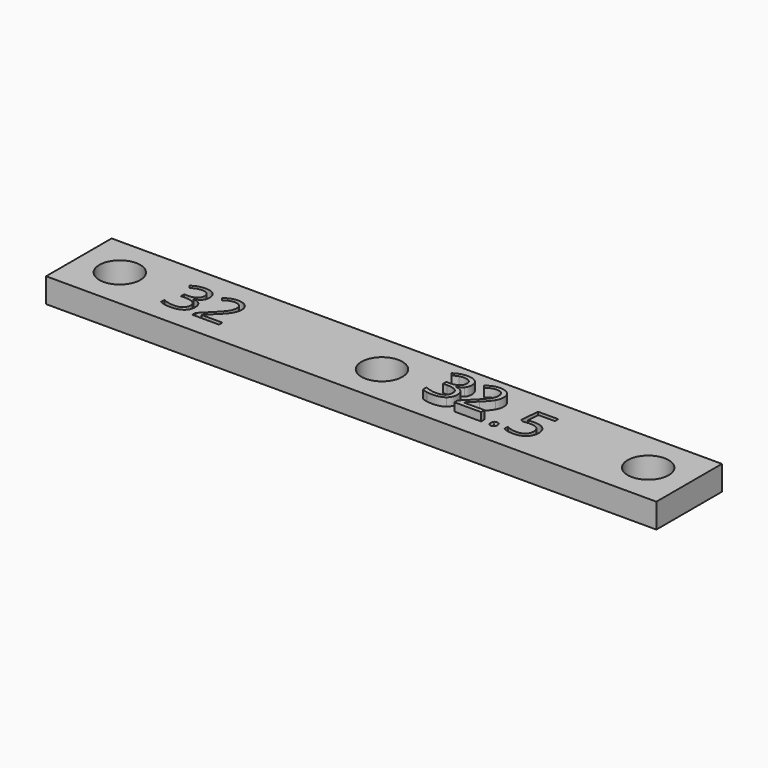
from build123d import *

# Parameters (mm, degrees)
F0_R     = 2.5
F1_DEPTH = 3
F2_DEPTH = 4


with BuildPart() as f1:
    # F0 (on Top) → F1 (new body)
    with BuildSketch(Plane.XY):
        Polygon((-37, 5), (-37, 0), (-37, -5), (37.5, -5), (37.5, 0), (37.5, 5), align=None)
        with BuildLine():
            add(Edge.make_bspline(
                [(-22.4505838764, 2.1978081597), (-22.0501932514, 1.8674045139), (-22.0501932514, 1.2912326389)],
                knots=[0, 0, 0, 1, 1, 1], degree=2))
            add(Edge.make_bspline(
                [(-22.0501932514, 1.2912326389), (-22.0501932514, 0.8159722222), (-22.3165778, 0.5143229167)],
                knots=[0, 0, 0, 1, 1, 1], degree=2))
            add(Edge.make_bspline(
                [(-22.3165778, 0.5143229167), (-22.5829623486, 0.2126736111), (-23.0712435986, 0.1106770833)],
                knots=[0, 0, 0, 1, 1, 1], degree=2))
            Line((-23.0712435986, 0.1106770833), (-23.0712435986, 0.0835503472))
            add(Edge.make_bspline(
                [(-23.0712435986, 0.0835503472), (-22.4744554041, 0.009765625), (-22.1863694666, -0.2956814236)],
                knots=[0, 0, 0, 1, 1, 1], degree=2))
            add(Edge.make_bspline(
                [(-22.1863694666, -0.2956814236), (-21.8982835291, -0.6011284722), (-21.8982835291, -1.0959201389)],
                knots=[0, 0, 0, 1, 1, 1], degree=2))
            add(Edge.make_bspline(
                [(-21.8982835291, -1.0959201389), (-21.8982835291, -1.8044704861), (-22.3898199875, -2.1864149306)],
                knots=[0, 0, 0, 1, 1, 1], degree=2))
            add(Edge.make_bspline(
                [(-22.3898199875, -2.1864149306), (-22.8813564458, -2.568359375), (-23.7863043625, -2.568359375)],
                knots=[0, 0, 0, 1, 1, 1], degree=2))
            add(Edge.make_bspline(
                [(-23.7863043625, -2.568359375), (-24.1801845708, -2.568359375), (-24.5073330083, -2.5086805556)],
                knots=[0, 0, 0, 1, 1, 1], degree=2))
            add(Edge.make_bspline(
                [(-24.5073330083, -2.5086805556), (-24.8344814458, -2.4490017361), (-25.142641168, -2.3003472222)],
                knots=[0, 0, 0, 1, 1, 1], degree=2))
            Line((-25.142641168, -2.3003472222), (-25.142641168, -1.7643229167))
            add(Edge.make_bspline(
                [(-25.142641168, -1.7643229167), (-24.820375543, -1.923828125), (-24.4557922097, -2.0068359375)],
                knots=[0, 0, 0, 1, 1, 1], degree=2))
            add(Edge.make_bspline(
                [(-24.4557922097, -2.0068359375), (-24.0912088764, -2.08984375), (-23.765688043, -2.08984375)],
                knots=[0, 0, 0, 1, 1, 1], degree=2))
            add(Edge.make_bspline(
                [(-23.765688043, -2.08984375), (-22.4809658208, -2.08984375), (-22.4809658208, -1.0828993056)],
                knots=[0, 0, 0, 1, 1, 1], degree=2))
            add(Edge.make_bspline(
                [(-22.4809658208, -1.0828993056), (-22.4809658208, -0.1801215278), (-23.8980665152, -0.1801215278)],
                knots=[0, 0, 0, 1, 1, 1], degree=2))
            Line((-23.8980665152, -0.1801215278), (-24.3863477652, -0.1801215278))
            Line((-24.3863477652, -0.1801215278), (-24.3863477652, 0.3038194444))
            Line((-24.3863477652, 0.3038194444), (-23.8915560986, 0.3038194444))
            add(Edge.make_bspline(
                [(-23.8915560986, 0.3038194444), (-23.3121290152, 0.3038194444), (-22.9730448139, 0.5598958333)],
                knots=[0, 0, 0, 1, 1, 1], degree=2))
            add(Edge.make_bspline(
                [(-22.9730448139, 0.5598958333), (-22.6339606125, 0.8159722222), (-22.6339606125, 1.2706163194)],
                knots=[0, 0, 0, 1, 1, 1], degree=2))
            add(Edge.make_bspline(
                [(-22.6339606125, 1.2706163194), (-22.6339606125, 1.6330295139), (-22.88298405, 1.8402777778)],
                knots=[0, 0, 0, 1, 1, 1], degree=2))
            add(Edge.make_bspline(
                [(-22.88298405, 1.8402777778), (-23.1320074875, 2.0475260417), (-23.5595248486, 2.0475260417)],
                knots=[0, 0, 0, 1, 1, 1], degree=2))
            add(Edge.make_bspline(
                [(-23.5595248486, 2.0475260417), (-23.8850456819, 2.0475260417), (-24.1731316194, 1.9590928819)],
                knots=[0, 0, 0, 1, 1, 1], degree=2))
            add(Edge.make_bspline(
                [(-24.1731316194, 1.9590928819), (-24.4612175569, 1.8706597222), (-24.8312262375, 1.6330295139)],
                knots=[0, 0, 0, 1, 1, 1], degree=2))
            Line((-24.8312262375, 1.6330295139), (-25.1155144319, 2.0128038194))
            add(Edge.make_bspline(
                [(-25.1155144319, 2.0128038194), (-24.810609918, 2.2536892361), (-24.4123894319, 2.3909505208)],
                knots=[0, 0, 0, 1, 1, 1], degree=2))
            add(Edge.make_bspline(
                [(-24.4123894319, 2.3909505208), (-24.0141689458, 2.5282118056), (-23.5725456819, 2.5282118056)],
                knots=[0, 0, 0, 1, 1, 1], degree=2))
            add(Edge.make_bspline(
                [(-23.5725456819, 2.5282118056), (-22.8509745014, 2.5282118056), (-22.4505838764, 2.1978081597)],
                knots=[0, 0, 0, 1, 1, 1], degree=2))
        make_face(mode=Mode.SUBTRACT)
        with BuildLine():
            add(Edge.make_bspline(
                [(15.1076843528, -2.4918619792), (14.9942945959, -2.3849826389), (14.9942945959, -2.1408420139)],
                knots=[0, 0, 0, 1, 1, 1], degree=2))
            add(Edge.make_bspline(
                [(14.9942945959, -2.1408420139), (14.9942945959, -1.9129774306), (15.0979187278, -1.7963324653)],
                knots=[0, 0, 0, 1, 1, 1], degree=2))
            add(Edge.make_bspline(
                [(15.0979187278, -1.7963324653), (15.2015428598, -1.6796875), (15.3946852209, -1.6796875)],
                knots=[0, 0, 0, 1, 1, 1], degree=2))
            add(Edge.make_bspline(
                [(15.3946852209, -1.6796875), (15.5910827903, -1.6796875), (15.7012173389, -1.7963324653)],
                knots=[0, 0, 0, 1, 1, 1], degree=2))
            add(Edge.make_bspline(
                [(15.7012173389, -1.7963324653), (15.8113518875, -1.9129774306), (15.8113518875, -2.1408420139)],
                knots=[0, 0, 0, 1, 1, 1], degree=2))
            add(Edge.make_bspline(
                [(15.8113518875, -2.1408420139), (15.8113518875, -2.3611111111), (15.6995897348, -2.4799262153)],
                knots=[0, 0, 0, 1, 1, 1], degree=2))
            add(Edge.make_bspline(
                [(15.6995897348, -2.4799262153), (15.587827582, -2.5987413194), (15.3946852209, -2.5987413194)],
                knots=[0, 0, 0, 1, 1, 1], degree=2))
            add(Edge.make_bspline(
                [(15.3946852209, -2.5987413194), (15.2210741098, -2.5987413194), (15.1076843528, -2.4918619792)],
                knots=[0, 0, 0, 1, 1, 1], degree=2))
        make_face(mode=Mode.SUBTRACT)
        with BuildLine():
            add(Edge.make_bspline(
                [(9.5494161236, 2.1978081597), (9.9498067486, 1.8674045139), (9.9498067486, 1.2912326389)],
                knots=[0, 0, 0, 1, 1, 1], degree=2))
            add(Edge.make_bspline(
                [(9.9498067486, 1.2912326389), (9.9498067486, 0.8159722222), (9.6834222, 0.5143229167)],
                knots=[0, 0, 0, 1, 1, 1], degree=2))
            add(Edge.make_bspline(
                [(9.6834222, 0.5143229167), (9.4170376514, 0.2126736111), (8.9287564014, 0.1106770833)],
                knots=[0, 0, 0, 1, 1, 1], degree=2))
            Line((8.9287564014, 0.1106770833), (8.9287564014, 0.0835503472))
            add(Edge.make_bspline(
                [(8.9287564014, 0.0835503472), (9.5255445959, 0.009765625), (9.8136305334, -0.2956814236)],
                knots=[0, 0, 0, 1, 1, 1], degree=2))
            add(Edge.make_bspline(
                [(9.8136305334, -0.2956814236), (10.1017164709, -0.6011284722), (10.1017164709, -1.0959201389)],
                knots=[0, 0, 0, 1, 1, 1], degree=2))
            add(Edge.make_bspline(
                [(10.1017164709, -1.0959201389), (10.1017164709, -1.8044704861), (9.6101800125, -2.1864149306)],
                knots=[0, 0, 0, 1, 1, 1], degree=2))
            add(Edge.make_bspline(
                [(9.6101800125, -2.1864149306), (9.1186435542, -2.568359375), (8.2136956375, -2.568359375)],
                knots=[0, 0, 0, 1, 1, 1], degree=2))
            add(Edge.make_bspline(
                [(8.2136956375, -2.568359375), (7.8198154292, -2.568359375), (7.4926669917, -2.5086805556)],
                knots=[0, 0, 0, 1, 1, 1], degree=2))
            add(Edge.make_bspline(
                [(7.4926669917, -2.5086805556), (7.1655185542, -2.4490017361), (6.857358832, -2.3003472222)],
                knots=[0, 0, 0, 1, 1, 1], degree=2))
            Line((6.857358832, -2.3003472222), (6.857358832, -1.7643229167))
            add(Edge.make_bspline(
                [(6.857358832, -1.7643229167), (7.179624457, -1.923828125), (7.5442077903, -2.0068359375)],
                knots=[0, 0, 0, 1, 1, 1], degree=2))
            add(Edge.make_bspline(
                [(7.5442077903, -2.0068359375), (7.9087911236, -2.08984375), (8.234311957, -2.08984375)],
                knots=[0, 0, 0, 1, 1, 1], degree=2))
            add(Edge.make_bspline(
                [(8.234311957, -2.08984375), (9.5190341792, -2.08984375), (9.5190341792, -1.0828993056)],
                knots=[0, 0, 0, 1, 1, 1], degree=2))
            add(Edge.make_bspline(
                [(9.5190341792, -1.0828993056), (9.5190341792, -0.1801215278), (8.1019334848, -0.1801215278)],
                knots=[0, 0, 0, 1, 1, 1], degree=2))
            Line((8.1019334848, -0.1801215278), (7.6136522348, -0.1801215278))
            Line((7.6136522348, -0.1801215278), (7.6136522348, 0.3038194444))
            Line((7.6136522348, 0.3038194444), (8.1084439014, 0.3038194444))
            add(Edge.make_bspline(
                [(8.1084439014, 0.3038194444), (8.6878709848, 0.3038194444), (9.0269551861, 0.5598958333)],
                knots=[0, 0, 0, 1, 1, 1], degree=2))
            add(Edge.make_bspline(
                [(9.0269551861, 0.5598958333), (9.3660393875, 0.8159722222), (9.3660393875, 1.2706163194)],
                knots=[0, 0, 0, 1, 1, 1], degree=2))
            add(Edge.make_bspline(
                [(9.3660393875, 1.2706163194), (9.3660393875, 1.6330295139), (9.11701595, 1.8402777778)],
                knots=[0, 0, 0, 1, 1, 1], degree=2))
            add(Edge.make_bspline(
                [(9.11701595, 1.8402777778), (8.8679925125, 2.0475260417), (8.4404751514, 2.0475260417)],
                knots=[0, 0, 0, 1, 1, 1], degree=2))
            add(Edge.make_bspline(
                [(8.4404751514, 2.0475260417), (8.1149543181, 2.0475260417), (7.8268683806, 1.9590928819)],
                knots=[0, 0, 0, 1, 1, 1], degree=2))
            add(Edge.make_bspline(
                [(7.8268683806, 1.9590928819), (7.5387824431, 1.8706597222), (7.1687737625, 1.6330295139)],
                knots=[0, 0, 0, 1, 1, 1], degree=2))
            Line((7.1687737625, 1.6330295139), (6.8844855681, 2.0128038194))
            add(Edge.make_bspline(
                [(6.8844855681, 2.0128038194), (7.189390082, 2.2536892361), (7.5876105681, 2.3909505208)],
                knots=[0, 0, 0, 1, 1, 1], degree=2))
            add(Edge.make_bspline(
                [(7.5876105681, 2.3909505208), (7.9858310542, 2.5282118056), (8.4274543181, 2.5282118056)],
                knots=[0, 0, 0, 1, 1, 1], degree=2))
            add(Edge.make_bspline(
                [(8.4274543181, 2.5282118056), (9.1490254986, 2.5282118056), (9.5494161236, 2.1978081597)],
                knots=[0, 0, 0, 1, 1, 1], degree=2))
        make_face(mode=Mode.SUBTRACT)
        with BuildLine():
            add(Edge.make_bspline(
                [(17.4389560542, 0.4503038194), (17.8284959848, 0.5284288194), (18.2158657764, 0.5284288194)],
                knots=[0, 0, 0, 1, 1, 1], degree=2))
            add(Edge.make_bspline(
                [(18.2158657764, 0.5284288194), (18.9992859153, 0.5284288194), (19.4485046653, 0.1399739583)],
                knots=[0, 0, 0, 1, 1, 1], degree=2))
            add(Edge.make_bspline(
                [(19.4485046653, 0.1399739583), (19.8977234153, -0.2484809028), (19.8977234153, -0.9233940972)],
                knots=[0, 0, 0, 1, 1, 1], degree=2))
            add(Edge.make_bspline(
                [(19.8977234153, -0.9233940972), (19.8977234153, -1.6927083333), (19.4078145611, -2.1305338542)],
                knots=[0, 0, 0, 1, 1, 1], degree=2))
            add(Edge.make_bspline(
                [(19.4078145611, -2.1305338542), (18.917905707, -2.568359375), (18.0563605681, -2.568359375)],
                knots=[0, 0, 0, 1, 1, 1], degree=2))
            add(Edge.make_bspline(
                [(18.0563605681, -2.568359375), (17.218686957, -2.568359375), (16.7781487625, -2.3003472222)],
                knots=[0, 0, 0, 1, 1, 1], degree=2))
            Line((16.7781487625, -2.3003472222), (16.7781487625, -1.7578125))
            add(Edge.make_bspline(
                [(16.7781487625, -1.7578125), (17.0146939014, -1.9097222222), (17.3673414709, -1.9965277778)],
                knots=[0, 0, 0, 1, 1, 1], degree=2))
            add(Edge.make_bspline(
                [(17.3673414709, -1.9965277778), (17.7199890403, -2.0833333333), (18.0628709848, -2.0833333333)],
                knots=[0, 0, 0, 1, 1, 1], degree=2))
            add(Edge.make_bspline(
                [(18.0628709848, -2.0833333333), (18.6596591792, -2.0833333333), (18.990062825, -1.8017578125)],
                knots=[0, 0, 0, 1, 1, 1], degree=2))
            add(Edge.make_bspline(
                [(18.990062825, -1.8017578125), (19.3204664709, -1.5201822917), (19.3204664709, -0.9874131944)],
                knots=[0, 0, 0, 1, 1, 1], degree=2))
            add(Edge.make_bspline(
                [(19.3204664709, -0.9874131944), (19.3204664709, 0.0499131944), (18.0498501514, 0.0499131944)],
                knots=[0, 0, 0, 1, 1, 1], degree=2))
            add(Edge.make_bspline(
                [(18.0498501514, 0.0499131944), (17.7275845264, 0.0499131944), (17.1883050125, -0.048828125)],
                knots=[0, 0, 0, 1, 1, 1], degree=2))
            Line((17.1883050125, -0.048828125), (16.896421332, 0.1378038194))
            Line((16.896421332, 0.1378038194), (17.0830532764, 2.4576822917))
            Line((17.0830532764, 2.4576822917), (19.5483310542, 2.4576822917))
            Line((19.5483310542, 2.4576822917), (19.5483310542, 1.9390190972))
            Line((19.5483310542, 1.9390190972), (17.5648241098, 1.9390190972))
            Line((17.5648241098, 1.9390190972), (17.4389560542, 0.4503038194))
        make_face(mode=Mode.SUBTRACT)
        with Locations((-32, 0)):
            Circle(F0_R, mode=Mode.SUBTRACT)
        with BuildLine():
            Line((-17.8932922097, -1.9780815972), (-17.8932922097, -2.5))
            Line((-17.8932922097, -2.5), (-21.1517557514, -2.5))
            Line((-21.1517557514, -2.5), (-21.1517557514, -2.0149739583))
            Line((-21.1517557514, -2.0149739583), (-19.8464172097, -0.703125))
            add(Edge.make_bspline(
                [(-19.8464172097, -0.703125), (-19.2496290152, -0.0987413194), (-19.0597418625, 0.1589626736)],
                knots=[0, 0, 0, 1, 1, 1], degree=2))
            add(Edge.make_bspline(
                [(-19.0597418625, 0.1589626736), (-18.8698547097, 0.4166666667), (-18.7749111333, 0.6608072917)],
                knots=[0, 0, 0, 1, 1, 1], degree=2))
            add(Edge.make_bspline(
                [(-18.7749111333, 0.6608072917), (-18.6799675569, 0.9049479167), (-18.6799675569, 1.1859809028)],
                knots=[0, 0, 0, 1, 1, 1], degree=2))
            add(Edge.make_bspline(
                [(-18.6799675569, 1.1859809028), (-18.6799675569, 1.5831163194), (-18.9208529736, 1.8153211806)],
                knots=[0, 0, 0, 1, 1, 1], degree=2))
            add(Edge.make_bspline(
                [(-18.9208529736, 1.8153211806), (-19.1617383902, 2.0475260417), (-19.5892557514, 2.0475260417)],
                knots=[0, 0, 0, 1, 1, 1], degree=2))
            add(Edge.make_bspline(
                [(-19.5892557514, 2.0475260417), (-19.8974154736, 2.0475260417), (-20.1741081819, 1.9455295139)],
                knots=[0, 0, 0, 1, 1, 1], degree=2))
            add(Edge.make_bspline(
                [(-20.1741081819, 1.9455295139), (-20.4508008902, 1.8435329861), (-20.7893425569, 1.5755208333)],
                knots=[0, 0, 0, 1, 1, 1], degree=2))
            Line((-20.7893425569, 1.5755208333), (-21.0877366541, 1.9585503472))
            add(Edge.make_bspline(
                [(-21.0877366541, 1.9585503472), (-20.4030578347, 2.5282118056), (-19.595766168, 2.5282118056)],
                knots=[0, 0, 0, 1, 1, 1], degree=2))
            add(Edge.make_bspline(
                [(-19.595766168, 2.5282118056), (-18.8969814458, 2.5282118056), (-18.5003885639, 2.1706814236)],
                knots=[0, 0, 0, 1, 1, 1], degree=2))
            add(Edge.make_bspline(
                [(-18.5003885639, 2.1706814236), (-18.1037956819, 1.8131510417), (-18.1037956819, 1.2098524306)],
                knots=[0, 0, 0, 1, 1, 1], degree=2))
            add(Edge.make_bspline(
                [(-18.1037956819, 1.2098524306), (-18.1037956819, 0.7378472222), (-18.3685526264, 0.2766927083)],
                knots=[0, 0, 0, 1, 1, 1], degree=2))
            add(Edge.make_bspline(
                [(-18.3685526264, 0.2766927083), (-18.6333095708, -0.1844618056), (-19.3581359597, -0.8897569444)],
                knots=[0, 0, 0, 1, 1, 1], degree=2))
            Line((-19.3581359597, -0.8897569444), (-20.4432054041, -1.9509548611))
            Line((-20.4432054041, -1.9509548611), (-20.4432054041, -1.9780815972))
            Line((-20.4432054041, -1.9780815972), (-17.8932922097, -1.9780815972))
        make_face(mode=Mode.SUBTRACT)
        Circle(F0_R, mode=Mode.SUBTRACT)
        with BuildLine():
            Line((14.1067077903, -1.9780815972), (14.1067077903, -2.5))
            Line((14.1067077903, -2.5), (10.8482442486, -2.5))
            Line((10.8482442486, -2.5), (10.8482442486, -2.0149739583))
            Line((10.8482442486, -2.0149739583), (12.1535827903, -0.703125))
            add(Edge.make_bspline(
                [(12.1535827903, -0.703125), (12.7503709848, -0.0987413194), (12.9402581375, 0.1589626736)],
                knots=[0, 0, 0, 1, 1, 1], degree=2))
            add(Edge.make_bspline(
                [(12.9402581375, 0.1589626736), (13.1301452903, 0.4166666667), (13.2250888667, 0.6608072917)],
                knots=[0, 0, 0, 1, 1, 1], degree=2))
            add(Edge.make_bspline(
                [(13.2250888667, 0.6608072917), (13.3200324431, 0.9049479167), (13.3200324431, 1.1859809028)],
                knots=[0, 0, 0, 1, 1, 1], degree=2))
            add(Edge.make_bspline(
                [(13.3200324431, 1.1859809028), (13.3200324431, 1.5831163194), (13.0791470264, 1.8153211806)],
                knots=[0, 0, 0, 1, 1, 1], degree=2))
            add(Edge.make_bspline(
                [(13.0791470264, 1.8153211806), (12.8382616098, 2.0475260417), (12.4107442486, 2.0475260417)],
                knots=[0, 0, 0, 1, 1, 1], degree=2))
            add(Edge.make_bspline(
                [(12.4107442486, 2.0475260417), (12.1025845264, 2.0475260417), (11.8258918181, 1.9455295139)],
                knots=[0, 0, 0, 1, 1, 1], degree=2))
            add(Edge.make_bspline(
                [(11.8258918181, 1.9455295139), (11.5491991098, 1.8435329861), (11.2106574431, 1.5755208333)],
                knots=[0, 0, 0, 1, 1, 1], degree=2))
            Line((11.2106574431, 1.5755208333), (10.9122633459, 1.9585503472))
            add(Edge.make_bspline(
                [(10.9122633459, 1.9585503472), (11.5969421653, 2.5282118056), (12.404233832, 2.5282118056)],
                knots=[0, 0, 0, 1, 1, 1], degree=2))
            add(Edge.make_bspline(
                [(12.404233832, 2.5282118056), (13.1030185542, 2.5282118056), (13.4996114361, 2.1706814236)],
                knots=[0, 0, 0, 1, 1, 1], degree=2))
            add(Edge.make_bspline(
                [(13.4996114361, 2.1706814236), (13.8962043181, 1.8131510417), (13.8962043181, 1.2098524306)],
                knots=[0, 0, 0, 1, 1, 1], degree=2))
            add(Edge.make_bspline(
                [(13.8962043181, 1.2098524306), (13.8962043181, 0.7378472222), (13.6314473736, 0.2766927083)],
                knots=[0, 0, 0, 1, 1, 1], degree=2))
            add(Edge.make_bspline(
                [(13.6314473736, 0.2766927083), (13.3666904292, -0.1844618056), (12.6418640403, -0.8897569444)],
                knots=[0, 0, 0, 1, 1, 1], degree=2))
            Line((12.6418640403, -0.8897569444), (11.5567945959, -1.9509548611))
            Line((11.5567945959, -1.9509548611), (11.5567945959, -1.9780815972))
            Line((11.5567945959, -1.9780815972), (14.1067077903, -1.9780815972))
        make_face(mode=Mode.SUBTRACT)
        with Locations((32.5, 0)):
            Circle(F0_R, mode=Mode.SUBTRACT)
    extrude(amount=F1_DEPTH)

    # F0 (on Top) → F2 (join)
    with BuildSketch(Plane.XY):
        with BuildLine():
            add(Edge.make_bspline(
                [(9.9498067486, 1.2912326389), (9.9498067486, 0.8159722222), (9.6834222, 0.5143229167)],
                knots=[0, 0, 0, 1, 1, 1], degree=2))
            add(Edge.make_bspline(
                [(9.5494161236, 2.1978081597), (9.9498067486, 1.8674045139), (9.9498067486, 1.2912326389)],
                knots=[0, 0, 0, 1, 1, 1], degree=2))
            add(Edge.make_bspline(
                [(8.4274543181, 2.5282118056), (9.1490254986, 2.5282118056), (9.5494161236, 2.1978081597)],
                knots=[0, 0, 0, 1, 1, 1], degree=2))
            add(Edge.make_bspline(
                [(7.5876105681, 2.3909505208), (7.9858310542, 2.5282118056), (8.4274543181, 2.5282118056)],
                knots=[0, 0, 0, 1, 1, 1], degree=2))
            add(Edge.make_bspline(
                [(6.8844855681, 2.0128038194), (7.189390082, 2.2536892361), (7.5876105681, 2.3909505208)],
                knots=[0, 0, 0, 1, 1, 1], degree=2))
            Line((6.8844855681, 2.0128038194), (7.1687737625, 1.6330295139))
            add(Edge.make_bspline(
                [(7.8268683806, 1.9590928819), (7.5387824431, 1.8706597222), (7.1687737625, 1.6330295139)],
                knots=[0, 0, 0, 1, 1, 1], degree=2))
            add(Edge.make_bspline(
                [(8.4404751514, 2.0475260417), (8.1149543181, 2.0475260417), (7.8268683806, 1.9590928819)],
                knots=[0, 0, 0, 1, 1, 1], degree=2))
            add(Edge.make_bspline(
                [(9.11701595, 1.8402777778), (8.8679925125, 2.0475260417), (8.4404751514, 2.0475260417)],
                knots=[0, 0, 0, 1, 1, 1], degree=2))
            add(Edge.make_bspline(
                [(9.3660393875, 1.2706163194), (9.3660393875, 1.6330295139), (9.11701595, 1.8402777778)],
                knots=[0, 0, 0, 1, 1, 1], degree=2))
            add(Edge.make_bspline(
                [(9.0269551861, 0.5598958333), (9.3660393875, 0.8159722222), (9.3660393875, 1.2706163194)],
                knots=[0, 0, 0, 1, 1, 1], degree=2))
            add(Edge.make_bspline(
                [(8.1084439014, 0.3038194444), (8.6878709848, 0.3038194444), (9.0269551861, 0.5598958333)],
                knots=[0, 0, 0, 1, 1, 1], degree=2))
            Line((8.1084439014, 0.3038194444), (7.6136522348, 0.3038194444))
            Line((7.6136522348, 0.3038194444), (7.6136522348, -0.1801215278))
            Line((7.6136522348, -0.1801215278), (8.1019334848, -0.1801215278))
            add(Edge.make_bspline(
                [(9.5190341792, -1.0828993056), (9.5190341792, -0.1801215278), (8.1019334848, -0.1801215278)],
                knots=[0, 0, 0, 1, 1, 1], degree=2))
            add(Edge.make_bspline(
                [(8.234311957, -2.08984375), (9.5190341792, -2.08984375), (9.5190341792, -1.0828993056)],
                knots=[0, 0, 0, 1, 1, 1], degree=2))
            add(Edge.make_bspline(
                [(7.5442077903, -2.0068359375), (7.9087911236, -2.08984375), (8.234311957, -2.08984375)],
                knots=[0, 0, 0, 1, 1, 1], degree=2))
            add(Edge.make_bspline(
                [(6.857358832, -1.7643229167), (7.179624457, -1.923828125), (7.5442077903, -2.0068359375)],
                knots=[0, 0, 0, 1, 1, 1], degree=2))
            Line((6.857358832, -1.7643229167), (6.857358832, -2.3003472222))
            add(Edge.make_bspline(
                [(7.4926669917, -2.5086805556), (7.1655185542, -2.4490017361), (6.857358832, -2.3003472222)],
                knots=[0, 0, 0, 1, 1, 1], degree=2))
            add(Edge.make_bspline(
                [(8.2136956375, -2.568359375), (7.8198154292, -2.568359375), (7.4926669917, -2.5086805556)],
                knots=[0, 0, 0, 1, 1, 1], degree=2))
            add(Edge.make_bspline(
                [(9.6101800125, -2.1864149306), (9.1186435542, -2.568359375), (8.2136956375, -2.568359375)],
                knots=[0, 0, 0, 1, 1, 1], degree=2))
            add(Edge.make_bspline(
                [(10.1017164709, -1.0959201389), (10.1017164709, -1.8044704861), (9.6101800125, -2.1864149306)],
                knots=[0, 0, 0, 1, 1, 1], degree=2))
            add(Edge.make_bspline(
                [(9.8136305334, -0.2956814236), (10.1017164709, -0.6011284722), (10.1017164709, -1.0959201389)],
                knots=[0, 0, 0, 1, 1, 1], degree=2))
            add(Edge.make_bspline(
                [(8.9287564014, 0.0835503472), (9.5255445959, 0.009765625), (9.8136305334, -0.2956814236)],
                knots=[0, 0, 0, 1, 1, 1], degree=2))
            Line((8.9287564014, 0.0835503472), (8.9287564014, 0.1106770833))
            add(Edge.make_bspline(
                [(9.6834222, 0.5143229167), (9.4170376514, 0.2126736111), (8.9287564014, 0.1106770833)],
                knots=[0, 0, 0, 1, 1, 1], degree=2))
        make_face()
        with BuildLine():
            add(Edge.make_bspline(
                [(9.9498067486, 1.2912326389), (9.9498067486, 0.8159722222), (9.6834222, 0.5143229167)],
                knots=[0, 0, 0, 1, 1, 1], degree=2))
            add(Edge.make_bspline(
                [(9.5494161236, 2.1978081597), (9.9498067486, 1.8674045139), (9.9498067486, 1.2912326389)],
                knots=[0, 0, 0, 1, 1, 1], degree=2))
            add(Edge.make_bspline(
                [(8.4274543181, 2.5282118056), (9.1490254986, 2.5282118056), (9.5494161236, 2.1978081597)],
                knots=[0, 0, 0, 1, 1, 1], degree=2))
            add(Edge.make_bspline(
                [(7.5876105681, 2.3909505208), (7.9858310542, 2.5282118056), (8.4274543181, 2.5282118056)],
                knots=[0, 0, 0, 1, 1, 1], degree=2))
            add(Edge.make_bspline(
                [(6.8844855681, 2.0128038194), (7.189390082, 2.2536892361), (7.5876105681, 2.3909505208)],
                knots=[0, 0, 0, 1, 1, 1], degree=2))
            Line((6.8844855681, 2.0128038194), (7.1687737625, 1.6330295139))
            add(Edge.make_bspline(
                [(7.8268683806, 1.9590928819), (7.5387824431, 1.8706597222), (7.1687737625, 1.6330295139)],
                knots=[0, 0, 0, 1, 1, 1], degree=2))
            add(Edge.make_bspline(
                [(8.4404751514, 2.0475260417), (8.1149543181, 2.0475260417), (7.8268683806, 1.9590928819)],
                knots=[0, 0, 0, 1, 1, 1], degree=2))
            add(Edge.make_bspline(
                [(9.11701595, 1.8402777778), (8.8679925125, 2.0475260417), (8.4404751514, 2.0475260417)],
                knots=[0, 0, 0, 1, 1, 1], degree=2))
            add(Edge.make_bspline(
                [(9.3660393875, 1.2706163194), (9.3660393875, 1.6330295139), (9.11701595, 1.8402777778)],
                knots=[0, 0, 0, 1, 1, 1], degree=2))
            add(Edge.make_bspline(
                [(9.0269551861, 0.5598958333), (9.3660393875, 0.8159722222), (9.3660393875, 1.2706163194)],
                knots=[0, 0, 0, 1, 1, 1], degree=2))
            add(Edge.make_bspline(
                [(8.1084439014, 0.3038194444), (8.6878709848, 0.3038194444), (9.0269551861, 0.5598958333)],
                knots=[0, 0, 0, 1, 1, 1], degree=2))
            Line((8.1084439014, 0.3038194444), (7.6136522348, 0.3038194444))
            Line((7.6136522348, 0.3038194444), (7.6136522348, -0.1801215278))
            Line((7.6136522348, -0.1801215278), (8.1019334848, -0.1801215278))
            add(Edge.make_bspline(
                [(9.5190341792, -1.0828993056), (9.5190341792, -0.1801215278), (8.1019334848, -0.1801215278)],
                knots=[0, 0, 0, 1, 1, 1], degree=2))
            add(Edge.make_bspline(
                [(8.234311957, -2.08984375), (9.5190341792, -2.08984375), (9.5190341792, -1.0828993056)],
                knots=[0, 0, 0, 1, 1, 1], degree=2))
            add(Edge.make_bspline(
                [(7.5442077903, -2.0068359375), (7.9087911236, -2.08984375), (8.234311957, -2.08984375)],
                knots=[0, 0, 0, 1, 1, 1], degree=2))
            add(Edge.make_bspline(
                [(6.857358832, -1.7643229167), (7.179624457, -1.923828125), (7.5442077903, -2.0068359375)],
                knots=[0, 0, 0, 1, 1, 1], degree=2))
            Line((6.857358832, -1.7643229167), (6.857358832, -2.3003472222))
            add(Edge.make_bspline(
                [(7.4926669917, -2.5086805556), (7.1655185542, -2.4490017361), (6.857358832, -2.3003472222)],
                knots=[0, 0, 0, 1, 1, 1], degree=2))
            add(Edge.make_bspline(
                [(8.2136956375, -2.568359375), (7.8198154292, -2.568359375), (7.4926669917, -2.5086805556)],
                knots=[0, 0, 0, 1, 1, 1], degree=2))
            add(Edge.make_bspline(
                [(9.6101800125, -2.1864149306), (9.1186435542, -2.568359375), (8.2136956375, -2.568359375)],
                knots=[0, 0, 0, 1, 1, 1], degree=2))
            add(Edge.make_bspline(
                [(10.1017164709, -1.0959201389), (10.1017164709, -1.8044704861), (9.6101800125, -2.1864149306)],
                knots=[0, 0, 0, 1, 1, 1], degree=2))
            add(Edge.make_bspline(
                [(9.8136305334, -0.2956814236), (10.1017164709, -0.6011284722), (10.1017164709, -1.0959201389)],
                knots=[0, 0, 0, 1, 1, 1], degree=2))
            add(Edge.make_bspline(
                [(8.9287564014, 0.0835503472), (9.5255445959, 0.009765625), (9.8136305334, -0.2956814236)],
                knots=[0, 0, 0, 1, 1, 1], degree=2))
            Line((8.9287564014, 0.0835503472), (8.9287564014, 0.1106770833))
            add(Edge.make_bspline(
                [(9.6834222, 0.5143229167), (9.4170376514, 0.2126736111), (8.9287564014, 0.1106770833)],
                knots=[0, 0, 0, 1, 1, 1], degree=2))
        make_face()
        with BuildLine():
            Line((10.8482442486, -2.5), (14.1067077903, -2.5))
            Line((14.1067077903, -2.5), (14.1067077903, -1.9780815972))
            Line((14.1067077903, -1.9780815972), (11.5567945959, -1.9780815972))
            Line((11.5567945959, -1.9780815972), (11.5567945959, -1.9509548611))
            Line((11.5567945959, -1.9509548611), (12.6418640403, -0.8897569444))
            add(Edge.make_bspline(
                [(13.6314473736, 0.2766927083), (13.3666904292, -0.1844618056), (12.6418640403, -0.8897569444)],
                knots=[0, 0, 0, 1, 1, 1], degree=2))
            add(Edge.make_bspline(
                [(13.8962043181, 1.2098524306), (13.8962043181, 0.7378472222), (13.6314473736, 0.2766927083)],
                knots=[0, 0, 0, 1, 1, 1], degree=2))
            add(Edge.make_bspline(
                [(13.4996114361, 2.1706814236), (13.8962043181, 1.8131510417), (13.8962043181, 1.2098524306)],
                knots=[0, 0, 0, 1, 1, 1], degree=2))
            add(Edge.make_bspline(
                [(12.404233832, 2.5282118056), (13.1030185542, 2.5282118056), (13.4996114361, 2.1706814236)],
                knots=[0, 0, 0, 1, 1, 1], degree=2))
            add(Edge.make_bspline(
                [(10.9122633459, 1.9585503472), (11.5969421653, 2.5282118056), (12.404233832, 2.5282118056)],
                knots=[0, 0, 0, 1, 1, 1], degree=2))
            Line((10.9122633459, 1.9585503472), (11.2106574431, 1.5755208333))
            add(Edge.make_bspline(
                [(11.8258918181, 1.9455295139), (11.5491991098, 1.8435329861), (11.2106574431, 1.5755208333)],
                knots=[0, 0, 0, 1, 1, 1], degree=2))
            add(Edge.make_bspline(
                [(12.4107442486, 2.0475260417), (12.1025845264, 2.0475260417), (11.8258918181, 1.9455295139)],
                knots=[0, 0, 0, 1, 1, 1], degree=2))
            add(Edge.make_bspline(
                [(13.0791470264, 1.8153211806), (12.8382616098, 2.0475260417), (12.4107442486, 2.0475260417)],
                knots=[0, 0, 0, 1, 1, 1], degree=2))
            add(Edge.make_bspline(
                [(13.3200324431, 1.1859809028), (13.3200324431, 1.5831163194), (13.0791470264, 1.8153211806)],
                knots=[0, 0, 0, 1, 1, 1], degree=2))
            add(Edge.make_bspline(
                [(13.2250888667, 0.6608072917), (13.3200324431, 0.9049479167), (13.3200324431, 1.1859809028)],
                knots=[0, 0, 0, 1, 1, 1], degree=2))
            add(Edge.make_bspline(
                [(12.9402581375, 0.1589626736), (13.1301452903, 0.4166666667), (13.2250888667, 0.6608072917)],
                knots=[0, 0, 0, 1, 1, 1], degree=2))
            add(Edge.make_bspline(
                [(12.1535827903, -0.703125), (12.7503709848, -0.0987413194), (12.9402581375, 0.1589626736)],
                knots=[0, 0, 0, 1, 1, 1], degree=2))
            Line((12.1535827903, -0.703125), (10.8482442486, -2.0149739583))
            Line((10.8482442486, -2.0149739583), (10.8482442486, -2.5))
        make_face()
        with BuildLine():
            add(Edge.make_bspline(
                [(9.9498067486, 1.2912326389), (9.9498067486, 0.8159722222), (9.6834222, 0.5143229167)],
                knots=[0, 0, 0, 1, 1, 1], degree=2))
            add(Edge.make_bspline(
                [(9.5494161236, 2.1978081597), (9.9498067486, 1.8674045139), (9.9498067486, 1.2912326389)],
                knots=[0, 0, 0, 1, 1, 1], degree=2))
            add(Edge.make_bspline(
                [(8.4274543181, 2.5282118056), (9.1490254986, 2.5282118056), (9.5494161236, 2.1978081597)],
                knots=[0, 0, 0, 1, 1, 1], degree=2))
            add(Edge.make_bspline(
                [(7.5876105681, 2.3909505208), (7.9858310542, 2.5282118056), (8.4274543181, 2.5282118056)],
                knots=[0, 0, 0, 1, 1, 1], degree=2))
            add(Edge.make_bspline(
                [(6.8844855681, 2.0128038194), (7.189390082, 2.2536892361), (7.5876105681, 2.3909505208)],
                knots=[0, 0, 0, 1, 1, 1], degree=2))
            Line((6.8844855681, 2.0128038194), (7.1687737625, 1.6330295139))
            add(Edge.make_bspline(
                [(7.8268683806, 1.9590928819), (7.5387824431, 1.8706597222), (7.1687737625, 1.6330295139)],
                knots=[0, 0, 0, 1, 1, 1], degree=2))
            add(Edge.make_bspline(
                [(8.4404751514, 2.0475260417), (8.1149543181, 2.0475260417), (7.8268683806, 1.9590928819)],
                knots=[0, 0, 0, 1, 1, 1], degree=2))
            add(Edge.make_bspline(
                [(9.11701595, 1.8402777778), (8.8679925125, 2.0475260417), (8.4404751514, 2.0475260417)],
                knots=[0, 0, 0, 1, 1, 1], degree=2))
            add(Edge.make_bspline(
                [(9.3660393875, 1.2706163194), (9.3660393875, 1.6330295139), (9.11701595, 1.8402777778)],
                knots=[0, 0, 0, 1, 1, 1], degree=2))
            add(Edge.make_bspline(
                [(9.0269551861, 0.5598958333), (9.3660393875, 0.8159722222), (9.3660393875, 1.2706163194)],
                knots=[0, 0, 0, 1, 1, 1], degree=2))
            add(Edge.make_bspline(
                [(8.1084439014, 0.3038194444), (8.6878709848, 0.3038194444), (9.0269551861, 0.5598958333)],
                knots=[0, 0, 0, 1, 1, 1], degree=2))
            Line((8.1084439014, 0.3038194444), (7.6136522348, 0.3038194444))
            Line((7.6136522348, 0.3038194444), (7.6136522348, -0.1801215278))
            Line((7.6136522348, -0.1801215278), (8.1019334848, -0.1801215278))
            add(Edge.make_bspline(
                [(9.5190341792, -1.0828993056), (9.5190341792, -0.1801215278), (8.1019334848, -0.1801215278)],
                knots=[0, 0, 0, 1, 1, 1], degree=2))
            add(Edge.make_bspline(
                [(8.234311957, -2.08984375), (9.5190341792, -2.08984375), (9.5190341792, -1.0828993056)],
                knots=[0, 0, 0, 1, 1, 1], degree=2))
            add(Edge.make_bspline(
                [(7.5442077903, -2.0068359375), (7.9087911236, -2.08984375), (8.234311957, -2.08984375)],
                knots=[0, 0, 0, 1, 1, 1], degree=2))
            add(Edge.make_bspline(
                [(6.857358832, -1.7643229167), (7.179624457, -1.923828125), (7.5442077903, -2.0068359375)],
                knots=[0, 0, 0, 1, 1, 1], degree=2))
            Line((6.857358832, -1.7643229167), (6.857358832, -2.3003472222))
            add(Edge.make_bspline(
                [(7.4926669917, -2.5086805556), (7.1655185542, -2.4490017361), (6.857358832, -2.3003472222)],
                knots=[0, 0, 0, 1, 1, 1], degree=2))
            add(Edge.make_bspline(
                [(8.2136956375, -2.568359375), (7.8198154292, -2.568359375), (7.4926669917, -2.5086805556)],
                knots=[0, 0, 0, 1, 1, 1], degree=2))
            add(Edge.make_bspline(
                [(9.6101800125, -2.1864149306), (9.1186435542, -2.568359375), (8.2136956375, -2.568359375)],
                knots=[0, 0, 0, 1, 1, 1], degree=2))
            add(Edge.make_bspline(
                [(10.1017164709, -1.0959201389), (10.1017164709, -1.8044704861), (9.6101800125, -2.1864149306)],
                knots=[0, 0, 0, 1, 1, 1], degree=2))
            add(Edge.make_bspline(
                [(9.8136305334, -0.2956814236), (10.1017164709, -0.6011284722), (10.1017164709, -1.0959201389)],
                knots=[0, 0, 0, 1, 1, 1], degree=2))
            add(Edge.make_bspline(
                [(8.9287564014, 0.0835503472), (9.5255445959, 0.009765625), (9.8136305334, -0.2956814236)],
                knots=[0, 0, 0, 1, 1, 1], degree=2))
            Line((8.9287564014, 0.0835503472), (8.9287564014, 0.1106770833))
            add(Edge.make_bspline(
                [(9.6834222, 0.5143229167), (9.4170376514, 0.2126736111), (8.9287564014, 0.1106770833)],
                knots=[0, 0, 0, 1, 1, 1], degree=2))
        make_face()
    extrude(amount=F2_DEPTH)


solid = f1.part
